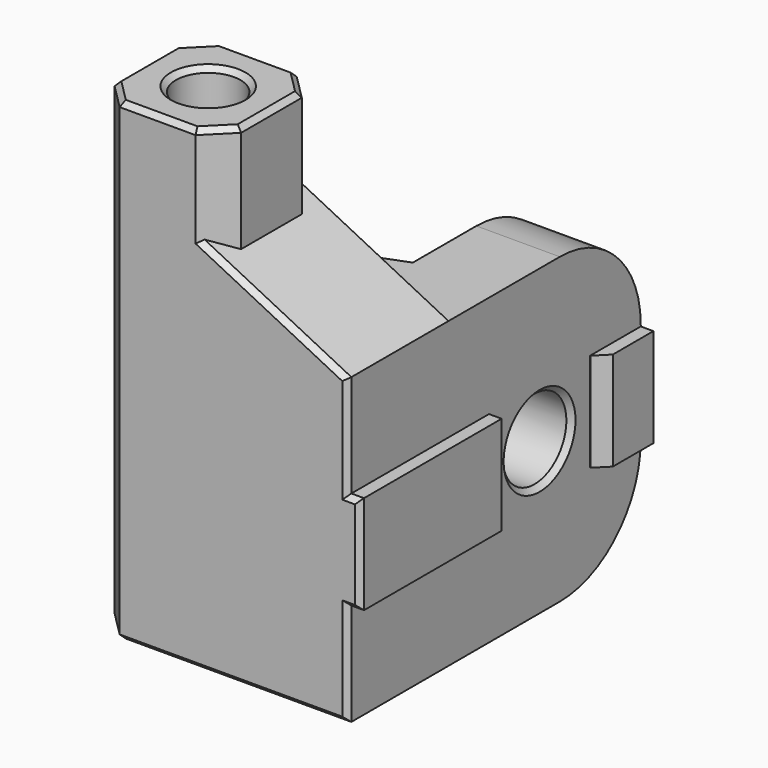
from build123d import *

# Parameters (mm, degrees)
PAD008_DEPTH       = 40
SKETCH033_W        = 30
SKETCH033_H        = 13.5
POCKET020_DEPTH    = 21.001
POCKET021_DEPTH    = 37.501
SKETCH035_R        = 8
POCKET022_DEPTH    = 13.001
SKETCH036_R        = 3.15
POCKET023_DEPTH    = 8.001
SKETCH037_W        = 11
SKETCH037_H        = 24
POCKET024_DEPTH    = 8.001
FILLET003002004_R  = 8
SKETCH038_R        = 2
POCKET025_DEPTH    = 37.501
SKETCH039_R        = 2.55
POCKET026_DEPTH    = 6
SKETCH040_W        = 10
SKETCH040_H        = 8
POCKET027_DEPTH    = 1
CHAMFER026013_SIZE = 2
CHAMFER026014_SIZE = 0.4
CHAMFER026015_SIZE = 0.99
CHAMFER026016_SIZE = 0.5


with BuildPart() as part:
    # Sketch032 → Pad008 (new body)
    with BuildSketch(Plane.XZ):
        Polygon((-20, 10.5), (-10, 10.5), (-10, 2), (0, -3), (0, -11.1), (1, -11.1), (1, -18.9), (0, -18.9), (0, -27), (-20, -27), align=None)
    extrude(amount=PAD008_DEPTH)

    # Sketch033 (on DatumPlane) → Pocket020 (cut, through all)
    with BuildSketch(Plane.YZ.offset(-20)):
        with Locations((-15, 3.75)):
            Rectangle(SKETCH033_W, SKETCH033_H)
    extrude(amount=POCKET020_DEPTH, mode=Mode.SUBTRACT)

    # Sketch034 (on DatumPlane) → Pocket021 (cut, through all)
    with BuildSketch(Plane.XY.offset(-27)):
        Polygon((-20, -30), (-7, -25), (-7, 0), (-20, 0), align=None)
    extrude(amount=POCKET021_DEPTH, mode=Mode.SUBTRACT)

    # Sketch035 (on DatumPlane) → Pocket022 (cut, through all)
    with BuildSketch(Plane.YZ.offset(-7)):
        with Locations((-21, -15)):
            Circle(SKETCH035_R)
    extrude(amount=-POCKET022_DEPTH, mode=Mode.SUBTRACT)

    # Sketch036 (on DatumPlane) → Pocket023 (cut, through all)
    with BuildSketch(Plane.YZ.offset(-7)):
        with Locations((-21, -15)):
            Circle(SKETCH036_R)
    extrude(amount=POCKET023_DEPTH, mode=Mode.SUBTRACT)

    # Sketch037 (on DatumPlane) → Pocket024 (cut, through all)
    with BuildSketch(Plane.YZ.offset(-7)):
        with Locations((-5.5, -15)):
            Rectangle(SKETCH037_W, SKETCH037_H)
    extrude(amount=POCKET024_DEPTH, mode=Mode.SUBTRACT)

    # Fillet003002004
    fillet003002004_edges = [part.edges().sort_by_distance(p)[0] for p in [
        (-3.5, -11, -27),
        (-3.5, -11, -3),
    ]]
    fillet(fillet003002004_edges, radius=FILLET003002004_R)

    # Sketch038 (on DatumPlane) → Pocket025 (cut, through all)
    with BuildSketch(Plane.XY.offset(10.5)):
        with Locations((-15, -35)):
            Circle(SKETCH038_R)
    extrude(amount=-POCKET025_DEPTH, mode=Mode.SUBTRACT)

    # Sketch039 (on DatumPlane) → Pocket026 (cut)
    with BuildSketch(Plane.XY.offset(10.5)):
        with Locations((-15, -35)):
            Circle(SKETCH039_R)
    extrude(amount=-POCKET026_DEPTH, mode=Mode.SUBTRACT)

    # Sketch040 (on DatumPlane) → Pocket027 (cut)
    with BuildSketch(Plane.YZ.offset(1)):
        with Locations((-21, -15)):
            Rectangle(SKETCH040_W, SKETCH040_H)
    extrude(amount=-POCKET027_DEPTH, mode=Mode.SUBTRACT)

    # Chamfer026013
    chamfer026013_edges = [part.edges().sort_by_distance(p)[0] for p in [
        (-10, -40, 6.25),
        (-20, -40, -8.25),
        (-10, -30, 6.25),
        (-20, -30, 3.75),
    ]]
    chamfer(chamfer026013_edges, length=CHAMFER026013_SIZE)

    # Chamfer026014
    chamfer026014_edges = [part.edges().sort_by_distance(p)[0] for p in [
        (-9, -40, -27),
        (0, -40, -22.95),
        (0.5, -40, -18.9),
        (1, -40, -15),
        (0.5, -40, -11.1),
        (0, -40, -7.05),
        (-19, -39, -27),
        (-20, -34, -27),
        (-13.5, -27.5, -27),
        (-7, -22, -27),
        (-7, -13.343146, -24.656854),
        (-7, -11, -15),
        (-7, -13.343146, -5.343146),
        (-7, -22, -3),
        (-13.5, -27.5, -3),
        (-20, -31, -3),
        (-7, -24.15, -15),
        (0, -24.15, -15),
        (-17, -35, -27),
        (-15, -40, 10.5),
        (-19, -39, 10.5),
        (-20, -35, 10.5),
        (-19, -31, 10.5),
        (-15, -30, 10.5),
        (-11, -31, 10.5),
        (-10, -35, 10.5),
        (-11, -39, 10.5),
        (-17.55, -35, 10.5),
        (-5, -40, -0.5),
        (-11, -40, 2.5),
    ]]
    chamfer(chamfer026014_edges, length=CHAMFER026014_SIZE)

    # Chamfer026015
    chamfer026015_edges = [part.edges().sort_by_distance(p)[0] for p in [
        (1, -16, -15),
    ]]
    chamfer(chamfer026015_edges, length=CHAMFER026015_SIZE)

    # Chamfer026016
    chamfer026016_edges = [part.edges().sort_by_distance(p)[0] for p in [
        (-17, -35, 4.5),
    ]]
    chamfer(chamfer026016_edges, length=CHAMFER026016_SIZE)


with BuildPart() as part_1:
    # Body001001001002003006 placement: moved
    add(part.part.moved(Location((10, -25, 0))))


solid = part_1.part
